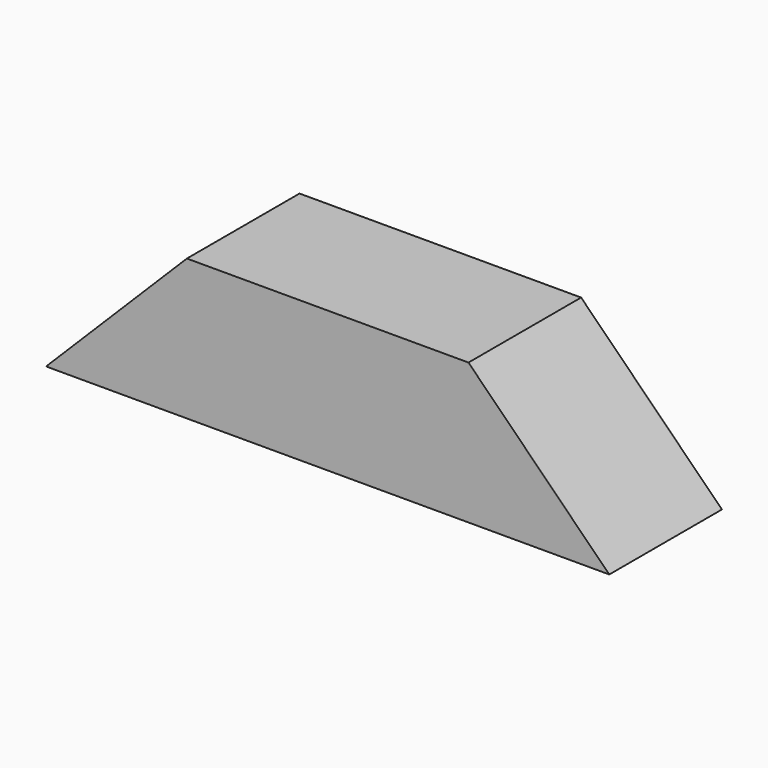
from build123d import *

# Parameters (mm, degrees)
F0_W     = 38.1
F0_H     = 38.1
F1_DEPTH = 152.4
F3_DEPTH = 38.101


with BuildPart() as f1:
    # F0 (on Right) → F1 (new body)
    with BuildSketch(Plane.YZ):
        Rectangle(F0_W, F0_H)
    extrude(amount=F1_DEPTH)

    # F2 (on face) → F3 (cut, through all)
    with BuildSketch(Plane.XZ.offset(19.05)):
        Polygon((0, 19.05), (0, -19.05), (38.1, 19.05), align=None)
        Polygon((114.3, 19.05), (152.4, -19.05), (152.4, 19.05), align=None)
    extrude(amount=-F3_DEPTH, mode=Mode.SUBTRACT)


solid = f1.part
